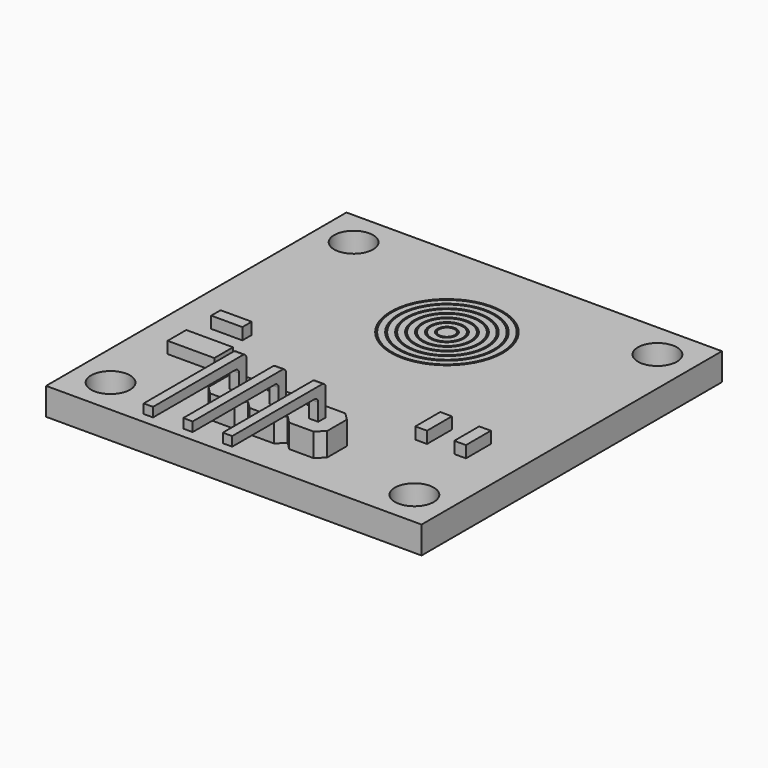
from build123d import *

# Parameters (mm, degrees)
SKETCH_W            = 24.1
SKETCH_H            = 24.1
PAD_DEPTH           = 1.75
SKETCH001_R         = 1.25
POCKET_DEPTH        = 1.751
PAD001_DEPTH        = 1.5
PAD002_DEPTH        = 0.3
PAD002_DEPTH_BACK   = 0.3
LINEARPATTERN_COUNT = 3
LINEARPATTERN_PITCH = 2.54
SKETCH005_W         = 0.75
SKETCH005_H         = 2
SKETCH005_W_2       = 3
SKETCH005_H_2       = 1.5
SKETCH005_W_3       = 2
SKETCH005_H_3       = 0.75
PAD003_DEPTH        = 0.75
SKETCH006_R         = 0.6
SKETCH006_R_2       = 0.5
POCKET001_DEPTH     = 0.25
SKETCH007_R         = 1.1
SKETCH007_R_2       = 1
POCKET002_DEPTH     = 0.25
SKETCH008_R         = 1.6
SKETCH008_R_2       = 1.5
POCKET003_DEPTH     = 0.25
SKETCH009_R         = 2.1
SKETCH009_R_2       = 2
POCKET004_DEPTH     = 0.25
SKETCH010_R         = 2.6
SKETCH010_R_2       = 2.5
POCKET005_DEPTH     = 0.25
SKETCH011_R         = 3.1
SKETCH011_R_2       = 3
POCKET006_DEPTH     = 0.25
SKETCH012_R         = 3.6
SKETCH012_R_2       = 3.5
POCKET007_DEPTH     = 0.25


with BuildPart() as part:
    # Sketch → Pad (new body)
    with BuildSketch(Plane.XY):
        Rectangle(SKETCH_W, SKETCH_H)
    extrude(amount=PAD_DEPTH)

    # Sketch001 (on Face6 of Pad) → Pocket (cut, through all)
    with BuildSketch(Plane.XY.offset(1.75)):
        with Locations((-9.75, 9.75)):
            Circle(SKETCH001_R)
        with Locations((9.75, 9.75)):
            Circle(SKETCH001_R)
        with Locations((-9.75, -9.75)):
            Circle(SKETCH001_R)
        with Locations((9.75, -9.75)):
            Circle(SKETCH001_R)
    extrude(amount=-POCKET_DEPTH, mode=Mode.SUBTRACT)

    # Sketch002 (on Face5 of Pocket) → Pad001 (join)
    with BuildSketch(Plane.XY.offset(1.75)):
        Polygon((-3.81, -7.744125), (-3.81, -9.315875), (-3.325875, -9.8), (-1.754125, -9.8), (-1.27, -9.315875), (-1.27, -7.744125), (-1.754125, -7.26), (-3.325875, -7.26), align=None)
    pad001 = extrude(amount=PAD001_DEPTH)

    # Sketch004 (on DatumPlane) → Pad002 (join, two sides)
    with BuildSketch(Plane.YZ.offset(-2.54)) as pad002_sk:
        with BuildLine():
            Line((-8.83, 3.25), (-8.23, 3.25))
            Line((-8.23, 3.25), (-8.23, 4.95))
            ThreePointArc((-8.23, 4.95), (-8.317868, 5.162132), (-8.53, 5.25))
            Line((-8.53, 5.25), (-15.73, 5.25))
            Line((-15.73, 5.25), (-15.73, 4.65))
            Line((-15.73, 4.65), (-9.13, 4.65))
            ThreePointArc((-8.83, 4.35), (-8.917868, 4.562132), (-9.13, 4.65))
            Line((-8.83, 4.35), (-8.83, 3.25))
        make_face()
    pad002 = extrude(amount=PAD002_DEPTH) + extrude(pad002_sk.sketch, amount=-PAD002_DEPTH_BACK)

    # LinearPattern: Pad002, Pad001 ×3
    with Locations(*[(i * LINEARPATTERN_PITCH, 0, 0) for i in range(1, LINEARPATTERN_COUNT)]):
        add(pad002)
        add(pad001)

    # Sketch005 (on Face5 of LinearPattern) → Pad003 (join)
    with BuildSketch(Plane.XY.offset(1.75)):
        with Locations((8.925, -4.05)):
            Rectangle(SKETCH005_W, SKETCH005_H)
        with Locations((6.425, -4.05)):
            Rectangle(SKETCH005_W, SKETCH005_H)
        with Locations((-7.95, -4.8)):
            Rectangle(SKETCH005_W_2, SKETCH005_H_2)
        with Locations((-8.45, -1.675)):
            Rectangle(SKETCH005_W_3, SKETCH005_H_3)
    extrude(amount=PAD003_DEPTH)

    # Sketch006 (on Face5 of Pad003) → Pocket001 (cut)
    with BuildSketch(Plane.XY.offset(1.75)):
        with Locations((0, 5.05)):
            Circle(SKETCH006_R)
        with Locations((0, 5.05)):
            Circle(SKETCH006_R_2, mode=Mode.SUBTRACT)
    extrude(amount=-POCKET001_DEPTH, mode=Mode.SUBTRACT)

    # Sketch007 (on Face5 of Pocket001) → Pocket002 (cut)
    with BuildSketch(Plane.XY.offset(1.75)):
        with Locations((0, 5.05)):
            Circle(SKETCH007_R)
        with Locations((0, 5.05)):
            Circle(SKETCH007_R_2, mode=Mode.SUBTRACT)
    extrude(amount=-POCKET002_DEPTH, mode=Mode.SUBTRACT)

    # Sketch008 (on Face5 of Pocket002) → Pocket003 (cut)
    with BuildSketch(Plane.XY.offset(1.75)):
        with Locations((0, 5.05)):
            Circle(SKETCH008_R)
        with Locations((0, 5.05)):
            Circle(SKETCH008_R_2, mode=Mode.SUBTRACT)
    extrude(amount=-POCKET003_DEPTH, mode=Mode.SUBTRACT)

    # Sketch009 (on Face5 of Pocket003) → Pocket004 (cut)
    with BuildSketch(Plane.XY.offset(1.75)):
        with Locations((0, 5.05)):
            Circle(SKETCH009_R)
        with Locations((0, 5.05)):
            Circle(SKETCH009_R_2, mode=Mode.SUBTRACT)
    extrude(amount=-POCKET004_DEPTH, mode=Mode.SUBTRACT)

    # Sketch010 (on Face5 of Pocket004) → Pocket005 (cut)
    with BuildSketch(Plane.XY.offset(1.75)):
        with Locations((0, 5.05)):
            Circle(SKETCH010_R)
        with Locations((0, 5.05)):
            Circle(SKETCH010_R_2, mode=Mode.SUBTRACT)
    extrude(amount=-POCKET005_DEPTH, mode=Mode.SUBTRACT)

    # Sketch011 (on Face5 of Pocket005) → Pocket006 (cut)
    with BuildSketch(Plane.XY.offset(1.75)):
        with Locations((0, 5.05)):
            Circle(SKETCH011_R)
        with Locations((0, 5.05)):
            Circle(SKETCH011_R_2, mode=Mode.SUBTRACT)
    extrude(amount=-POCKET006_DEPTH, mode=Mode.SUBTRACT)

    # Sketch012 (on Face5 of Pocket006) → Pocket007 (cut)
    with BuildSketch(Plane.XY.offset(1.75)):
        with Locations((0, 5.05)):
            Circle(SKETCH012_R)
        with Locations((0, 5.05)):
            Circle(SKETCH012_R_2, mode=Mode.SUBTRACT)
    extrude(amount=-POCKET007_DEPTH, mode=Mode.SUBTRACT)


solid = part.part
